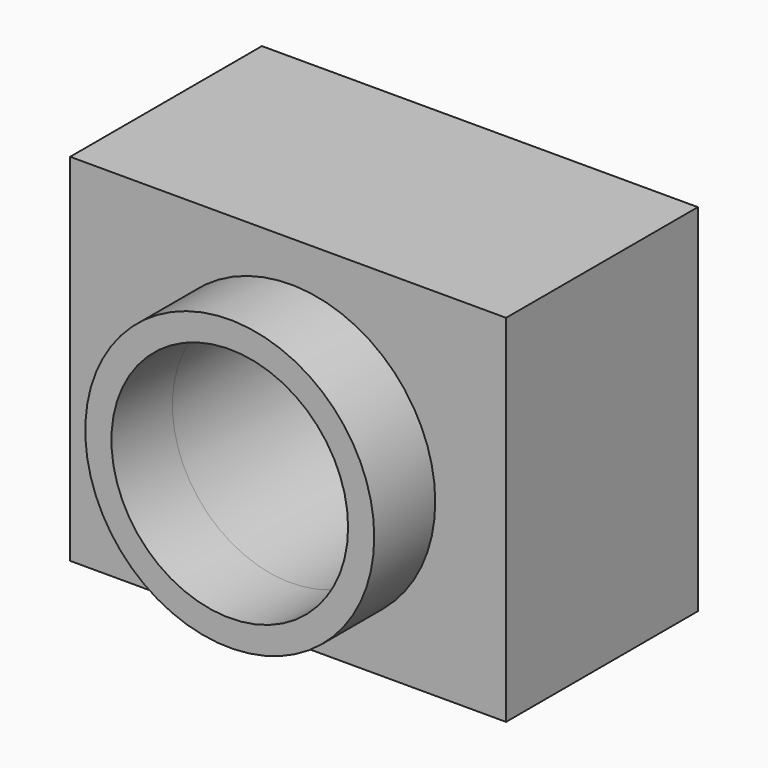
from build123d import *

# Parameters (mm, degrees)
F0_W     = 95.863237977
F0_H     = 52.7086667717
F1_DEPTH = 78.232
F2_R     = 31.7719269524
F2_R_2   = 26.0233800566
F3_DEPTH = 16.764
F4_DEPTH = 137.668


with BuildPart() as f1:
    # F0 (on Top) → F1 (new body)
    with BuildSketch(Plane.XY):
        with Locations((11.8457712233, -3.3831223845)):
            Rectangle(F0_W, F0_H)
    extrude(amount=F1_DEPTH)

    # F2 (on face) → F3 (join)
    with BuildSketch(Plane.XZ.offset(29.7374557704)):
        with Locations((12.4230552465, 37.5379212201)):
            Circle(F2_R)
        with Locations((12.4230552465, 37.5379212201)):
            Circle(F2_R_2, mode=Mode.SUBTRACT)
    extrude(amount=F3_DEPTH)

    # F4 (cut): a face of the model
    f4_faces = [f1.faces().sort_by_distance(p)[0] for p in [
        (12.4230552465, -29.7374557704, 37.5379212201),
    ]]
    extrude(f4_faces, amount=-F4_DEPTH, mode=Mode.SUBTRACT)


solid = f1.part
